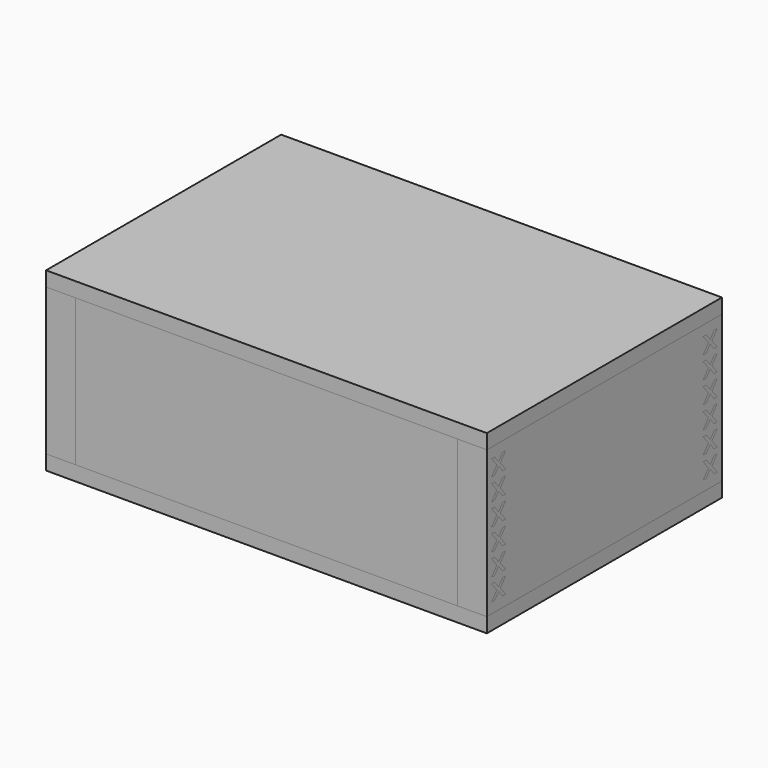
from build123d import *

# Parameters (mm, degrees)
SKETCH_W         = 300
SKETCH_H         = 200
PAD_DEPTH        = 10
ARRAY002_Z_COUNT = 2
ARRAY002_Z_PITCH = 110
PAD009_DEPTH     = 20
ARRAY005_X_COUNT = 2
ARRAY005_X_PITCH = 280
ARRAY005_Z_COUNT = 6
ARRAY005_Z_PITCH = 15
PAD008_DEPTH     = 20
ARRAY006_X_COUNT = 2
ARRAY006_X_PITCH = 280
ARRAY006_Z_COUNT = 6
ARRAY006_Z_PITCH = 15
PAD007_DEPTH     = 20
ARRAY001_X_COUNT = 2
ARRAY001_X_PITCH = 280
ARRAY001_Z_COUNT = 6
ARRAY001_Z_PITCH = 15
PAD006_DEPTH     = 20
ARRAY_X_COUNT    = 2
ARRAY_X_PITCH    = 280
ARRAY_Z_COUNT    = 6
ARRAY_Z_PITCH    = 15
SKETCH002_W      = 200
SKETCH002_H      = 100
PAD002_DEPTH     = 20
ARRAY003_X_COUNT = 2
ARRAY003_X_PITCH = 280
SKETCH010_W      = 20
SKETCH010_H      = 100
PAD010_DEPTH     = 20
ARRAY007_X_COUNT = 2
ARRAY007_X_PITCH = 280
ARRAY007_Y_COUNT = 2
ARRAY007_Y_PITCH = 180
SKETCH004_W      = 300
SKETCH004_H      = 100
PAD004_DEPTH     = 20
ARRAY004_Y_COUNT = 2
ARRAY004_Y_PITCH = 180


with BuildPart() as array_covers:
    # Sketch → Pad (new body)
    with BuildSketch(Plane.XY):
        with Locations((150, 100)):
            Rectangle(SKETCH_W, SKETCH_H)
    extrude(amount=-PAD_DEPTH)

    # Array002 Z: Array, Covers ×2


with BuildPart() as array_covers_1:
    add(array_covers.part)
    with Locations(*[(0, 0, i * ARRAY002_Z_PITCH) for i in range(1, ARRAY002_Z_COUNT)]):
        add(array_covers.part)


with BuildPart() as array_joints_dowels_back:
    # Sketch008 → Pad009 (new body)
    with BuildSketch(Plane(origin=(0, 200, 0), x_dir=(0, 1, 0), z_dir=(1, 0, 0))):
        Polygon((-16, 18), (-13.375, 18), (-10, 13.875), (-6.625, 18), (-4, 18), (-8.5, 12.5), (-4, 7), (-6.625, 7), (-10, 11.125), (-13.375, 7), (-16, 7), (-11.5, 12.5), align=None)
    extrude(amount=PAD009_DEPTH)

    # Array005 X: Array, Joints, Dowels, Back ×2


with BuildPart() as array_joints_dowels_back_1:
    add(array_joints_dowels_back.part)
    with Locations(*[(i * ARRAY005_X_PITCH, 0, 0) for i in range(1, ARRAY005_X_COUNT)]):
        add(array_joints_dowels_back.part)

    # Array005 Z: Array, Joints, Dowels, Back ×6


with BuildPart() as array_joints_dowels_back_2:
    add(array_joints_dowels_back_1.part)
    with Locations(*[(0, 0, i * ARRAY005_Z_PITCH) for i in range(1, ARRAY005_Z_COUNT)]):
        add(array_joints_dowels_back_1.part)


with BuildPart() as array_joints_dowels_front:
    # Sketch009 → Pad008 (new body)
    with BuildSketch(Plane.YZ):
        Polygon((4, 18), (6.625, 18), (10, 13.875), (13.375, 18), (16, 18), (11.5, 12.5), (16, 7), (13.375, 7), (10, 11.125), (6.625, 7), (4, 7), (8.5, 12.5), align=None)
    extrude(amount=PAD008_DEPTH)

    # Array006 X: Array, Joints, Dowels, Front ×2


with BuildPart() as array_joints_dowels_front_1:
    add(array_joints_dowels_front.part)
    with Locations(*[(i * ARRAY006_X_PITCH, 0, 0) for i in range(1, ARRAY006_X_COUNT)]):
        add(array_joints_dowels_front.part)

    # Array006 Z: Array, Joints, Dowels, Front ×6


with BuildPart() as array_joints_dowels_front_2:
    add(array_joints_dowels_front_1.part)
    with Locations(*[(0, 0, i * ARRAY006_Z_PITCH) for i in range(1, ARRAY006_Z_COUNT)]):
        add(array_joints_dowels_front_1.part)


with BuildPart() as array_joints_cut_back:
    # Sketch007 → Pad007 (new body)
    with BuildSketch(Plane(origin=(0, 200, 0), x_dir=(0, 1, 0), z_dir=(1, 0, 0))):
        Polygon((-16, 18), (-13.375, 18), (-10, 13.875), (-6.625, 18), (-4, 18), (-8.5, 12.5), (-4, 7), (-6.625, 7), (-10, 11.125), (-13.375, 7), (-16, 7), (-11.5, 12.5), align=None)
    extrude(amount=PAD007_DEPTH)

    # Array001 X: Array, Joints, Cut, Back ×2


with BuildPart() as array_joints_cut_back_1:
    add(array_joints_cut_back.part)
    with Locations(*[(i * ARRAY001_X_PITCH, 0, 0) for i in range(1, ARRAY001_X_COUNT)]):
        add(array_joints_cut_back.part)

    # Array001 Z: Array, Joints, Cut, Back ×6


with BuildPart() as array_joints_cut_back_2:
    add(array_joints_cut_back_1.part)
    with Locations(*[(0, 0, i * ARRAY001_Z_PITCH) for i in range(1, ARRAY001_Z_COUNT)]):
        add(array_joints_cut_back_1.part)


with BuildPart() as fusion:
    # Sketch006 → Pad006 (new body)
    with BuildSketch(Plane.YZ):
        Polygon((4, 18.000014), (6.625, 18.000014), (10, 13.875014), (13.375, 18.000014), (16, 18.000014), (11.5, 12.500014), (16, 7.000014), (13.375, 7.000014), (10, 11.125014), (6.625017, 7), (4.000017, 7), (8.5, 12.500014), align=None)
    extrude(amount=PAD006_DEPTH)

    # Array X: Fusion ×2


with BuildPart() as fusion_1:
    add(fusion.part)
    with Locations(*[(i * ARRAY_X_PITCH, 0, 0) for i in range(1, ARRAY_X_COUNT)]):
        add(fusion.part)

    # Array Z: Fusion ×6


with BuildPart() as fusion_2:
    add(fusion_1.part)
    with Locations(*[(0, 0, i * ARRAY_Z_PITCH) for i in range(1, ARRAY_Z_COUNT)]):
        add(fusion_1.part)

    # Fusion: union Array, Joints, Cut, Back
    add(array_joints_cut_back_2.part)


with BuildPart() as sides_cut:
    # Sketch002 → Pad002 (new body)
    with BuildSketch(Plane.YZ):
        with Locations((100, 50)):
            Rectangle(SKETCH002_W, SKETCH002_H)
    extrude(amount=PAD002_DEPTH)

    # Array003 X: Sides, cut ×2


with BuildPart() as sides_cut_1:
    add(sides_cut.part)
    with Locations(*[(i * ARRAY003_X_PITCH, 0, 0) for i in range(1, ARRAY003_X_COUNT)]):
        add(sides_cut.part)

    # Cut: cut Fusion
    add(fusion_2.part, mode=Mode.SUBTRACT)


with BuildPart() as array_boxcut:
    # Sketch010 → Pad010 (new body)
    with BuildSketch(Plane.YZ):
        with Locations((10, 50)):
            Rectangle(SKETCH010_W, SKETCH010_H)
    extrude(amount=PAD010_DEPTH)

    # Array007 X: Array, BoxCut ×2


with BuildPart() as array_boxcut_1:
    add(array_boxcut.part)
    with Locations(*[(i * ARRAY007_X_PITCH, 0, 0) for i in range(1, ARRAY007_X_COUNT)]):
        add(array_boxcut.part)

    # Array007 Y: Array, BoxCut ×2


with BuildPart() as array_boxcut_2:
    add(array_boxcut_1.part)
    with Locations(*[(0, i * ARRAY007_Y_PITCH, 0) for i in range(1, ARRAY007_Y_COUNT)]):
        add(array_boxcut_1.part)


with BuildPart() as fronts_cut:
    # Sketch004 → Pad004 (new body)
    with BuildSketch(Plane.XZ):
        with Locations((150, 50)):
            Rectangle(SKETCH004_W, SKETCH004_H)
    extrude(amount=-PAD004_DEPTH)

    # Array004 Y: Fronts, cut ×2


with BuildPart() as fronts_cut_1:
    add(fronts_cut.part)
    with Locations(*[(0, i * ARRAY004_Y_PITCH, 0) for i in range(1, ARRAY004_Y_COUNT)]):
        add(fronts_cut.part)

    # Cut001: cut Array, BoxCut
    add(array_boxcut_2.part, mode=Mode.SUBTRACT)


solid = Compound([array_covers_1.part, array_joints_dowels_back_2.part, array_joints_dowels_front_2.part, sides_cut_1.part, fronts_cut_1.part])
